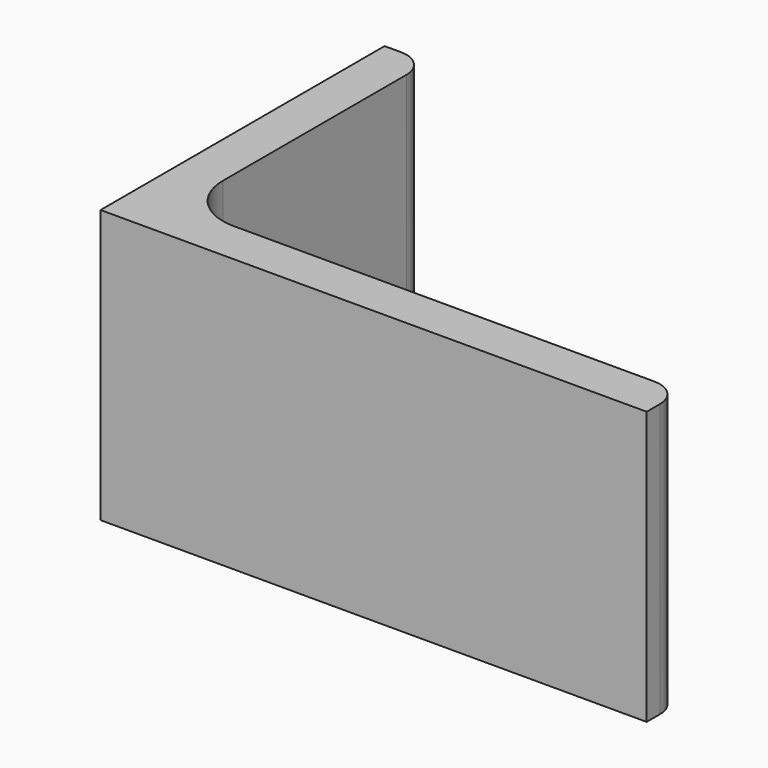
from build123d import *

# Parameters (mm, degrees)
EXTRUDE_DEPTH = 50


with BuildPart() as part:
    # Sketch → Extrude (new body)
    with BuildSketch(Plane.XY):
        with BuildLine():
            Line((0, 0), (100, 0))
            Line((100, 0), (100, 3))
            ThreePointArc((100, 3), (98.535534, 6.535534), (95, 8))
            Line((95, 8), (18, 8))
            ThreePointArc((8, 18), (10.928932, 10.928932), (18, 8))
            Line((8, 60), (8, 18))
            ThreePointArc((8, 60), (6.535534, 63.535534), (3, 65))
            Line((0, 65), (3, 65))
            Line((0, 0), (0, 65))
        make_face()
    extrude(amount=EXTRUDE_DEPTH)


solid = part.part
